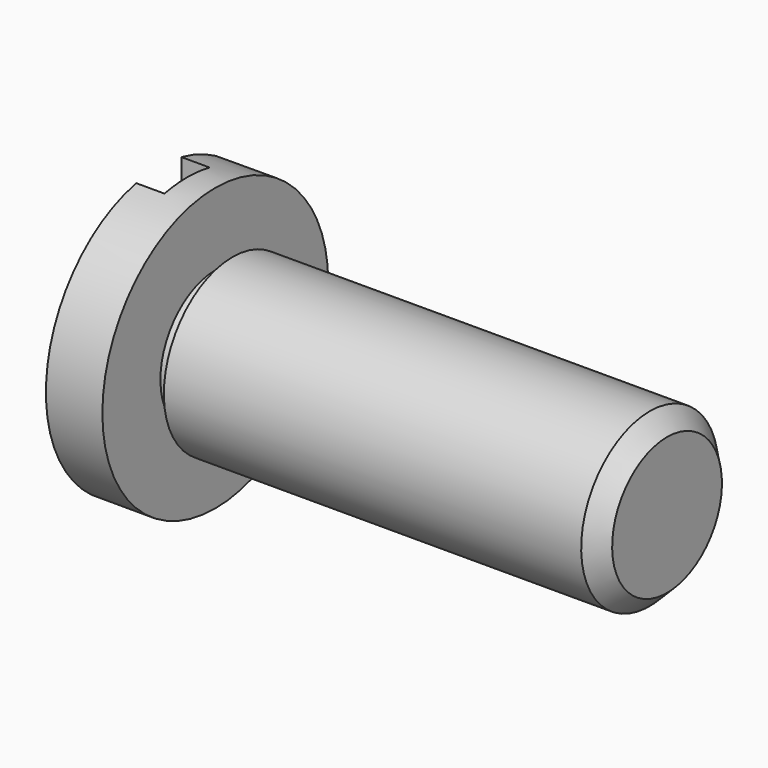
from build123d import *

# Parameters (mm, degrees)
F2_W     = 1.5875
F2_H     = 7.9375
F3_DEPTH = 0.79375


with BuildPart() as f0:
    # F1 (on Front) → F0 (revolve)
    with BuildSketch(Plane.XZ):
        Polygon((-7.14375, 3.96875), (-7.14375, 0), (7.14375, 0), (7.14375, 1.92913), (6.65988, 2.413), (-5.07238, 2.413), (-5.07238, 1.92913), (-5.55625, 1.92913), (-5.55625, 3.96875), align=None)
    revolve(axis=Axis((0, 0, 0), (1, 0, 0)))

    # F2 (on face) → F3 (cut)
    with BuildSketch(Plane(origin=(-7.14375, 0, 0), x_dir=(0, -1, 0), z_dir=(-1, 0, 0))):
        Rectangle(F2_W, F2_H)
    extrude(amount=-F3_DEPTH, mode=Mode.SUBTRACT)


solid = f0.part
